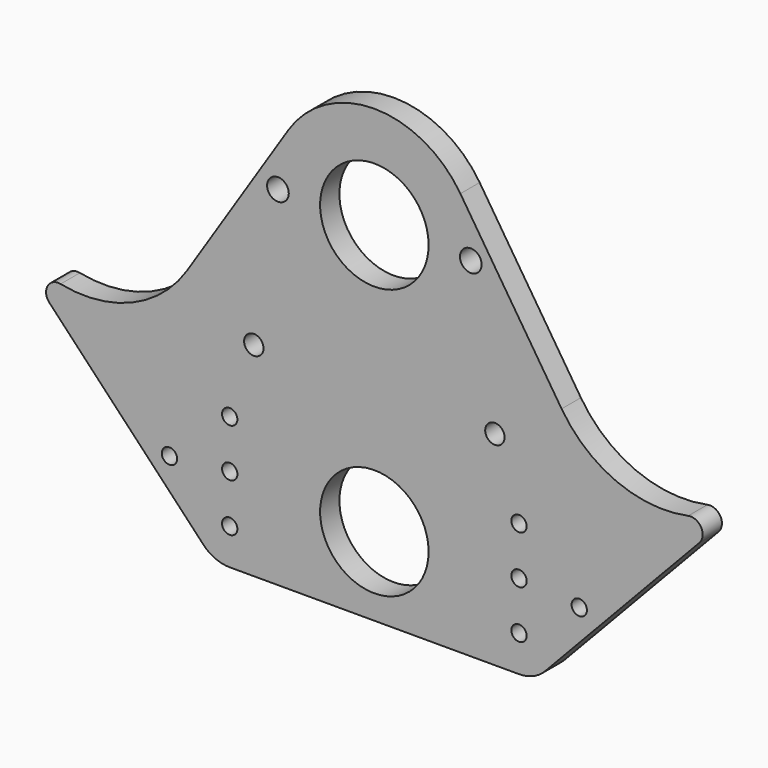
from build123d import *

# Parameters (mm, degrees)
F0_R     = 2.0193
F0_R_2   = 14.2875
F0_R_3   = 2.5527
F0_R_4   = 2.8575
F1_DEPTH = 6.35


with BuildPart() as f1:
    # F0 (on Front) → F1 (new body)
    with BuildSketch(Plane.XZ):
        with BuildLine():
            ThreePointArc((-49.323942, 42.948766), (-63.830824, 30.807895), (-82.659198, 28.979589))
            ThreePointArc((-82.659198, 28.979589), (-86.073502, 27.415326), (-85.607225, 23.688803))
            Line((-85.607225, 23.688803), (-45.021703, -19.243367))
            ThreePointArc((-45.021703, -19.243367), (-41.868292, -21.447891), (-38.1, -22.225))
            Line((-38.1, -22.225), (38.1, -22.225))
            ThreePointArc((38.1, -22.225), (41.868292, -21.447891), (45.021703, -19.243367))
            Line((45.021703, -19.243367), (85.607225, 23.688803))
            ThreePointArc((85.607225, 23.688803), (86.073502, 27.415326), (82.659198, 28.979589))
            ThreePointArc((82.659198, 28.979589), (63.830824, 30.807895), (49.323942, 42.948766))
            Line((49.323942, 42.948766), (22.663343, 84.185078))
            ThreePointArc((22.663343, 84.185078), (0, 96.52), (-22.663343, 84.185078))
            Line((-22.663343, 84.185078), (-49.323942, 42.948766))
        make_face()
        with Locations((-53.975, -1.5875)):
            Circle(F0_R, mode=Mode.SUBTRACT)
        with Locations((-38.1, -12.7)):
            Circle(F0_R, mode=Mode.SUBTRACT)
        with Locations((-38.1, 0)):
            Circle(F0_R, mode=Mode.SUBTRACT)
        with Locations((0, -1.5875)):
            Circle(F0_R_2, mode=Mode.SUBTRACT)
        with Locations((-38.1, 12.7)):
            Circle(F0_R, mode=Mode.SUBTRACT)
        with Locations((-31.75, 31.4325)):
            Circle(F0_R_3, mode=Mode.SUBTRACT)
        with Locations((38.1, -12.7)):
            Circle(F0_R, mode=Mode.SUBTRACT)
        with Locations((38.1, 0)):
            Circle(F0_R, mode=Mode.SUBTRACT)
        with Locations((53.975, -1.5875)):
            Circle(F0_R, mode=Mode.SUBTRACT)
        with Locations((38.1, 12.7)):
            Circle(F0_R, mode=Mode.SUBTRACT)
        with Locations((31.75, 31.4325)):
            Circle(F0_R_3, mode=Mode.SUBTRACT)
        with Locations((-25.4, 69.5325)):
            Circle(F0_R_4, mode=Mode.SUBTRACT)
        with Locations((0, 69.5325)):
            Circle(F0_R_2, mode=Mode.SUBTRACT)
        with Locations((25.4, 69.5325)):
            Circle(F0_R_4, mode=Mode.SUBTRACT)
    extrude(amount=F1_DEPTH)


solid = f1.part
